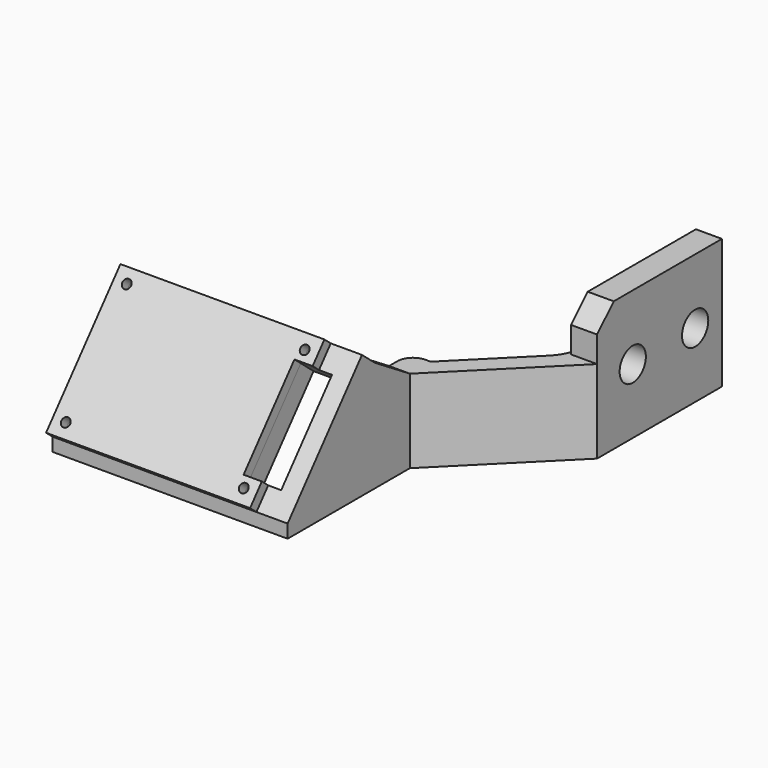
from build123d import *

# Parameters (mm, degrees)
SKETCH_W             = 39.22
SKETCH_H             = 27.79
PAD_DEPTH            = 2
SKETCH001_R          = 0.85
POCKET_DEPTH         = 2.001
SKETCH002_W          = 3.5
SKETCH002_H          = 19
POCKET001_DEPTH      = 2.001
BODY_PLACEMENT_ANGLE = 320
SKETCH003_W          = 45.22
SKETCH003_H          = 27.79
SKETCH003_R          = 0.85
SKETCH003_W_2        = 6
SKETCH003_H_2        = 19
PAD001_DEPTH         = 4
PAD002_DEPTH         = 4
PAD002_FACE18_W      = 4
PAD002_FACE18_H      = 16
PAD003_DEPTH         = 5
PAD004_DEPTH         = 16
PAD004_FACE26_W      = 5
PAD004_FACE26_H      = 16
PAD005_DEPTH         = 30
PAD005_FACE28_W      = 30
PAD005_FACE28_H      = 5
PAD006_DEPTH         = 9
CHAMFER_SIZE         = 4
FILLET_R             = 3
FILLET001_R          = 8
SKETCH008_R          = 3.15
POCKET002_DEPTH      = 5
PAD007_DEPTH         = 45.22


with BuildPart() as body:
    # Sketch → Pad (new body)
    with BuildSketch(Plane.XZ):
        with Locations((-19.61, 13.895)):
            Rectangle(SKETCH_W, SKETCH_H)
    extrude(amount=PAD_DEPTH)

    # Sketch001 (on Face6 of Pad) → Pocket (cut, through all)
    with BuildSketch(Plane.XZ.offset(2)):
        with Locations((-36.72, 25.29)):
            Circle(SKETCH001_R)
        with Locations((-2.5, 25.29)):
            Circle(SKETCH001_R)
        with Locations((-36.72, 2.5)):
            Circle(SKETCH001_R)
        with Locations((-2.5, 2.5)):
            Circle(SKETCH001_R)
    extrude(amount=-POCKET_DEPTH, mode=Mode.SUBTRACT)

    # Sketch002 (on Face5 of Pocket) → Pocket001 (cut, through all)
    with BuildSketch(Plane.XZ.offset(2)):
        with Locations((-1.75, 13.895)):
            Rectangle(SKETCH002_W, SKETCH002_H)
    extrude(amount=-POCKET001_DEPTH, mode=Mode.SUBTRACT)


with BuildPart() as body_1:
    # Body placement: moved
    add(body.part.rotate(Axis((0, 0, 0), (1, 0, 0)), BODY_PLACEMENT_ANGLE))


with BuildPart() as body001:
    # Sketch003 (on Face1 of Binder) → Pad001 (new body)
    with BuildSketch(Plane(origin=(0, 0, 0), x_dir=(-1, 0, 0), z_dir=(0, 0.766044, -0.642788))):
        with Locations((16.61, 13.895)):
            Rectangle(SKETCH003_W, SKETCH003_H)
        with Locations((2.5, 25.29)):
            Circle(SKETCH003_R, mode=Mode.SUBTRACT)
        with Locations((36.72, 25.29)):
            Circle(SKETCH003_R, mode=Mode.SUBTRACT)
        with Locations((36.72, 2.5)):
            Circle(SKETCH003_R, mode=Mode.SUBTRACT)
        with Locations((2.5, 2.5)):
            Circle(SKETCH003_R, mode=Mode.SUBTRACT)
        with Locations((0.5, 13.895)):
            Rectangle(SKETCH003_W_2, SKETCH003_H_2, mode=Mode.SUBTRACT)
    extrude(amount=PAD001_DEPTH)

    # Sketch004 (on Face2 of Pad001) → Pad002 (join)
    with BuildSketch(Plane.YZ.offset(6)):
        Polygon((20.927245, 18.717225), (29.371319, 13.42885), (29.371319, -2.57115), (3.064178, -2.57115), align=None)
    extrude(amount=-PAD002_DEPTH)

    # Pad002 Face18 → Pad003 (add)
    with BuildSketch(Plane(origin=(4, 29.371319, 5.42885), x_dir=(1, 0, 0), z_dir=(0, 1, 0))):
        Rectangle(PAD002_FACE18_W, PAD002_FACE18_H)
    extrude(amount=PAD003_DEPTH)

    # Sketch005 (on Face18 of Pad003) → Pad004 (join)
    with BuildSketch(Plane.XY.offset(13.42885)):
        Polygon((6, 34.371319), (6, 29.371319), (26, 49.371319), (21, 49.371319), align=None)
    extrude(amount=-PAD004_DEPTH)

    # Pad004 Face26 → Pad005 (add)
    with BuildSketch(Plane(origin=(23.5, 49.371319, 5.42885), x_dir=(1, 0, 0), z_dir=(0, 1, 0))):
        Rectangle(PAD004_FACE26_W, PAD004_FACE26_H)
    extrude(amount=PAD005_DEPTH)

    # Pad005 Face28 → Pad006 (add)
    with BuildSketch(Plane(origin=(23.5, 64.371319, 13.42885), x_dir=(0, 1, 0), z_dir=(0, 0, 1))):
        Rectangle(PAD005_FACE28_W, PAD005_FACE28_H)
    extrude(amount=PAD006_DEPTH)

    # Chamfer
    chamfer_edges = [body001.edges().sort_by_distance(p)[0] for p in [
        (23.5, 49.371319, 22.42885),
    ]]
    chamfer(chamfer_edges, length=CHAMFER_SIZE)

    # Fillet
    fillet_edges = [body001.edges().sort_by_distance(p)[0] for p in [
        (2, 34.371319, 5.42885),
    ]]
    fillet(fillet_edges, radius=FILLET_R)

    # Fillet001
    fillet001_edges = [body001.edges().sort_by_distance(p)[0] for p in [
        (21, 49.371319, 5.42885),
    ]]
    fillet(fillet001_edges, radius=FILLET001_R)

    # Sketch008 (on Face15 of Fillet001) → Pocket002 (cut)
    with BuildSketch(Plane.YZ.offset(26)):
        with Locations((57.937614, 9.92885)):
            Circle(SKETCH008_R)
        with Locations((72.937614, 9.92885)):
            Circle(SKETCH008_R)
    extrude(amount=-POCKET002_DEPTH, mode=Mode.SUBTRACT)

    # Sketch009 (on Face20 of Pocket002) → Pad007 (join)
    with BuildSketch(Plane.YZ.offset(6)):
        Polygon((0, 0), (3.064178, -2.57115), (0, -2.57115), align=None)
    extrude(amount=-PAD007_DEPTH)


solid = Compound([body_1.part, body001.part])
